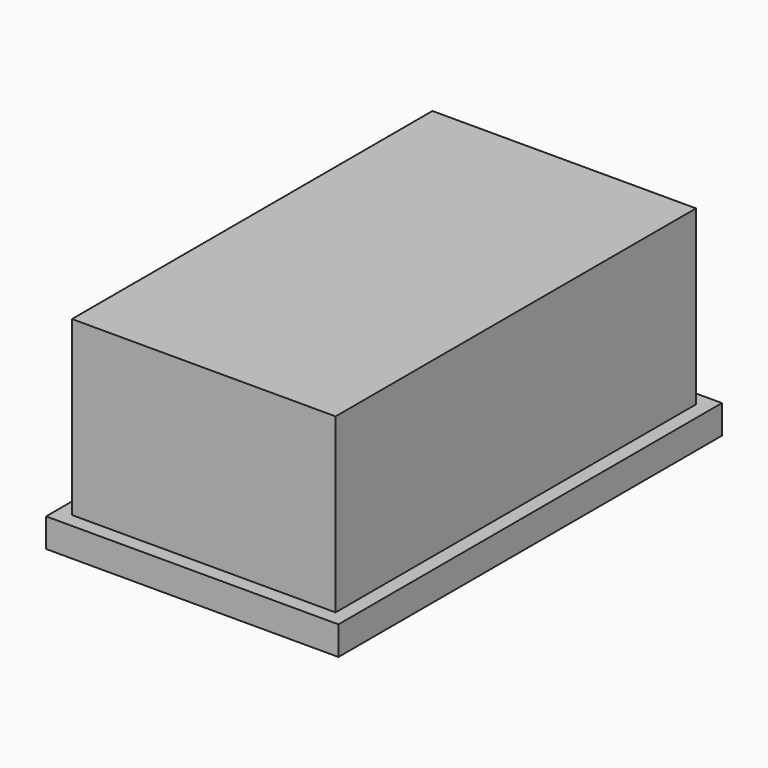
from build123d import *

# Parameters (mm, degrees)
F0_W     = 27.5
F0_H     = 47
F1_DEPTH = 18
F0_W_2   = 30.5
F0_H_2   = 50
F2_DEPTH = 3


with BuildPart() as f1:
    # F0 (on Top) → F1 (new body)
    with BuildSketch(Plane.XY):
        Rectangle(F0_W, F0_H)
    extrude(amount=F1_DEPTH)

    # F0 (on Top) → F2 (join)
    with BuildSketch(Plane.XY):
        Rectangle(F0_W_2, F0_H_2)
        Rectangle(F0_W, F0_H, mode=Mode.SUBTRACT)
        Rectangle(F0_W, F0_H)
    extrude(amount=-F2_DEPTH)


solid = f1.part
